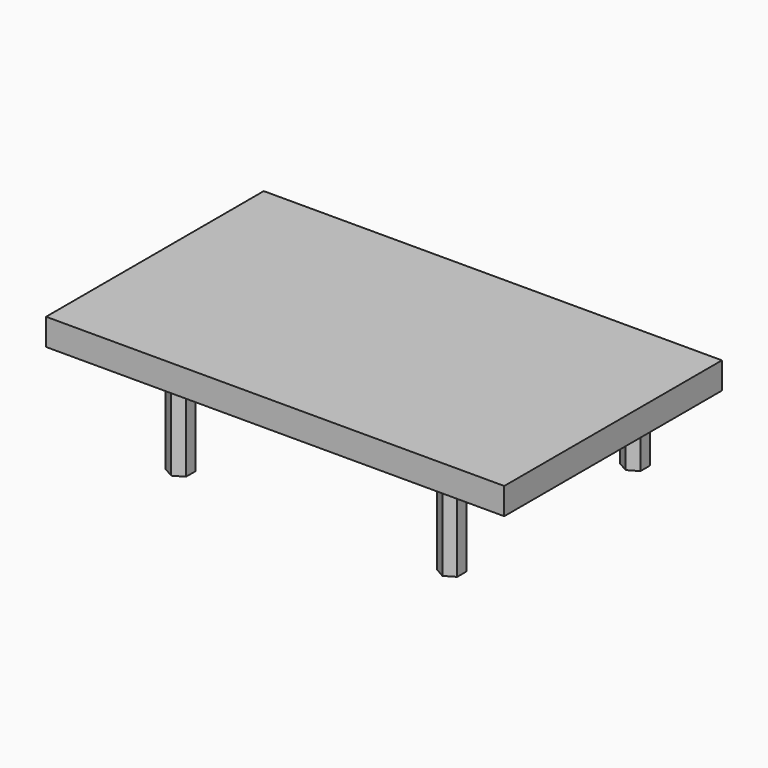
from build123d import *

# Parameters (mm, degrees)
SKETCH_W             = 98
SKETCH_H             = 58.2
PAD_DEPTH            = 5.7
PAD001_DEPTH         = 17
BODY_PLACEMENT_ANGLE = 180


with BuildPart() as part:
    # Sketch → Pad (new body)
    with BuildSketch(Plane.XY):
        with Locations((49, 29.1)):
            Rectangle(SKETCH_W, SKETCH_H)
    extrude(amount=PAD_DEPTH)

    # Sketch001 → Pad001 (join)
    with BuildSketch(Plane.XY):
        Polygon((75.165064, 54.75), (73, 56), (70.834936, 54.75), (70.834936, 52.25), (73, 51), (75.165064, 52.25), align=None)
        Polygon((12.834936, 54.75), (12.834936, 52.25), (15, 51), (17.165064, 52.25), (17.165064, 54.75), (15, 56), align=None)
        Polygon((12.834936, 5.75), (12.834936, 3.25), (15, 2), (17.165064, 3.25), (17.165064, 5.75), (15, 7), align=None)
        Polygon((70.834936, 5.75), (70.834936, 3.25), (73, 2), (75.165064, 3.25), (75.165064, 5.75), (73, 7), align=None)
    extrude(amount=-PAD001_DEPTH)


with BuildPart() as part_1:
    # Body placement: moved
    add(part.part.rotate(Axis((0, 0, 0), (0, 0, 1)), BODY_PLACEMENT_ANGLE))


solid = part_1.part
